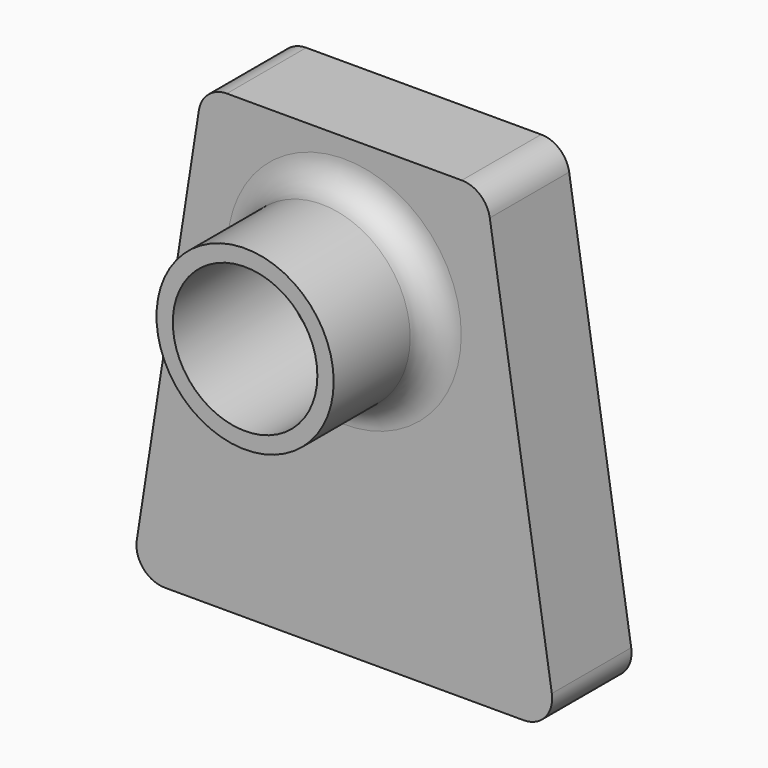
from build123d import *

# Parameters (mm, degrees)
F1_DEPTH  = 2.54
F3_DEPTH  = 6.35
F5_W      = 2.54
F5_H      = 25.4
F6_DEPTH  = 6.35
F7_W      = 2.54
F7_H      = 25.4
F8_DEPTH  = 6.35
F9_R      = 6.35
F10_DEPTH = 25.4
F11_R     = 15.875
F12_DEPTH = 22.225
F13_R     = 12.954
F14_DEPTH = 31.75
F15_R     = 5.08


with BuildPart() as f1:
    # F0 (on Front) → F1 (new body)
    with BuildSketch(Plane.XZ):
        Polygon((25.4, 0), (-25.4, 0), (-38.1, -81.5672268745), (38.1, -81.5672268745), align=None)
    extrude(amount=F1_DEPTH)

    # F2 (on face) → F3 (join)
    with BuildSketch(Plane.XZ.offset(2.54)):
        Polygon((-38.1, -81.5672268745), (38.1, -81.5672268745), (25.4, 0), (-25.4, 0), align=None)
        Polygon((20.1079053095, -3.175), (22.6810924375, -3.175), (34.3923987784, -78.3922268745), (10.4823719593, -78.3922268745), (7.9091848312, -78.3922268745), (-7.9091848312, -78.3922268745), (-10.4823719593, -78.3922268745), (-34.3923987784, -78.3922268745), (-22.6810924375, -3.175), (-20.1079053095, -3.175), align=None, mode=Mode.SUBTRACT)
        Polygon((-7.9091848312, -78.3922268745), (-20.1079053095, -3.175), (-22.6810924375, -3.175), (-10.4823719593, -78.3922268745), align=None)
        Polygon((10.4823719593, -78.3922268745), (22.6810924375, -3.175), (20.1079053095, -3.175), (7.9091848312, -78.3922268745), align=None)
    extrude(amount=F3_DEPTH)

    # F4: F1 across face


with BuildPart() as f1_1:
    add(f1.part)
    add(f1.part.mirror(Plane(origin=(0, -8.89, -43.1700299624), x_dir=(1, 0, 0), z_dir=(0, -1, 0))))

    # F5 (on face) → F6 (cut)
    with BuildSketch(Plane(origin=(22.6015407656, 0, -3.665515064), x_dir=(0, 1, 0), z_dir=(0.9871027149, 0, -0.1600881953))):
        with Locations((-3.81, -24.3075852952)):
            Rectangle(F5_W, F5_H)
    extrude(amount=-F6_DEPTH, mode=Mode.SUBTRACT)

    # F7 (on face) → F8 (cut)
    with BuildSketch(Plane(origin=(-20.0942998698, 0, -3.258891048), x_dir=(0, 1, 0), z_dir=(0.9871027149, 0, 0.1600881953))):
        with Locations((-3.81, -25.4971986666)):
            Rectangle(F7_W, F7_H)
    extrude(amount=-F8_DEPTH, mode=Mode.SUBTRACT)

    # F9 (on face) → F10 (cut)
    with BuildSketch(Plane(origin=(0, 0, -81.5672268745), x_dir=(1, 0, 0), z_dir=(0, 0, -1))):
        with Locations((-25.4, 8.89)):
            Circle(F9_R)
        with Locations((0, 8.89)):
            Circle(F9_R)
        with Locations((25.4, 8.89)):
            Circle(F9_R)
    extrude(amount=-F10_DEPTH, mode=Mode.SUBTRACT)

    # F11 (on face) → F12 (join)
    with BuildSketch(Plane.XZ.offset(17.78)):
        with Locations((0, -24.4172268745)):
            Circle(F11_R)
    extrude(amount=F12_DEPTH)

    # F13 (on face) → F14 (cut)
    with BuildSketch(Plane.XZ.offset(40.005)):
        with Locations((0, -24.4172268745)):
            Circle(F13_R)
    extrude(amount=-F14_DEPTH, mode=Mode.SUBTRACT)

    # F15
    f15_edges = [f1_1.edges().sort_by_distance(p)[0] for p in [
        (-15.875, -17.78, -24.417227),
        (-38.1, -8.89, -81.567227),
        (38.1, -8.89, -81.567227),
        (25.4, -8.89, 0),
        (-25.4, -8.89, 0),
    ]]
    fillet(f15_edges, radius=F15_R)


solid = f1_1.part
